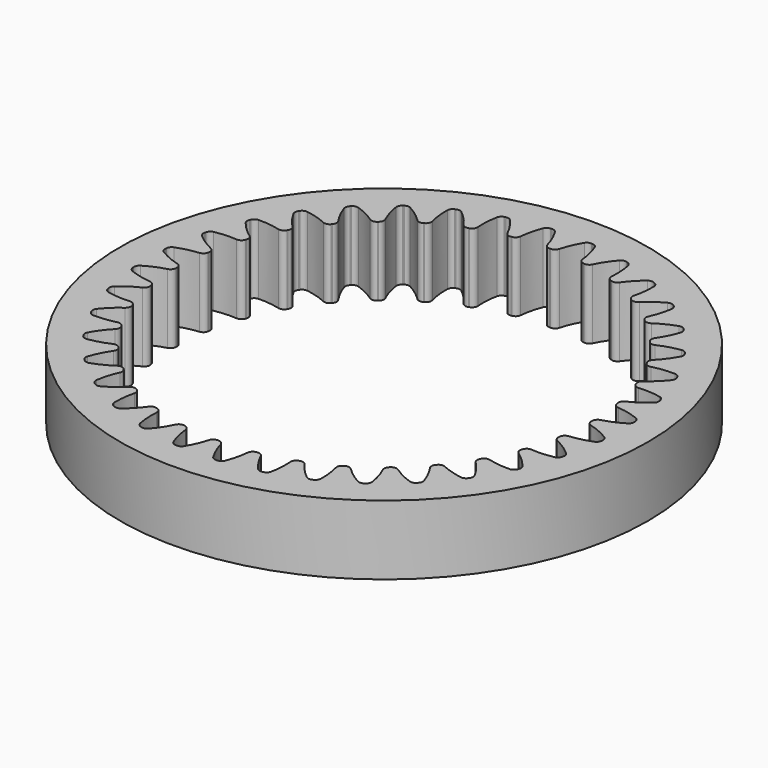
from build123d import *

# Parameters (mm, degrees)
F0_R     = 38
F1_DEPTH = 10


with BuildPart() as f1:
    # F0 (on Top) → F1 (new body)
    with BuildSketch(Plane.XY):
        Circle(F0_R)
        with BuildLine():
            ThreePointArc((-2.110733, 33.383711), (-1.375417, 31.970337), (-0.846461, 30.467499))
            ThreePointArc((-0.846461, 30.467499), (-0.556345, 30.040207), (-0.065598, 29.879231))
            Line((-0.065598, 29.879231), (0, 29.88))
            Line((0, 29.88), (0.065598, 29.879231))
            ThreePointArc((0.065598, 29.879231), (0.556345, 30.040207), (0.846461, 30.467499))
            ThreePointArc((0.846461, 30.467499), (1.375417, 31.970337), (2.110733, 33.383711))
            ThreePointArc((2.110733, 33.383711), (2.426648, 33.676705), (2.848717, 33.763341))
            Line((2.848717, 33.763341), (2.953266, 33.755989))
            Line((2.953266, 33.755989), (3.057504, 33.745075))
            ThreePointArc((3.057504, 33.745075), (3.458116, 33.586463), (3.718355, 33.243062))
            ThreePointArc((3.718355, 33.243062), (4.197069, 31.723474), (4.457024, 30.151616))
            ThreePointArc((4.457024, 30.151616), (4.668534, 29.680437), (5.123872, 29.43669))
            Line((5.123872, 29.43669), (5.188608, 29.426056))
            Line((5.188608, 29.426056), (5.253076, 29.413908))
            ThreePointArc((5.253076, 29.413908), (5.76432, 29.487221), (6.124227, 29.857643))
            ThreePointArc((6.124227, 29.857643), (6.906112, 31.245797), (7.875687, 32.510013))
            ThreePointArc((7.875687, 32.510013), (8.237681, 32.743697), (8.668381, 32.755726))
            Line((8.668381, 32.755726), (8.770066, 32.730331))
            Line((8.770066, 32.730331), (8.870824, 32.701481))
            ThreePointArc((8.870824, 32.701481), (9.237808, 32.475714), (9.434462, 32.09234))
            ThreePointArc((9.434462, 32.09234), (9.64203, 30.51271), (9.625085, 28.919591))
            ThreePointArc((9.625085, 28.919591), (9.751562, 28.418842), (10.157657, 28.099729))
            Line((10.157657, 28.099729), (10.219562, 28.078016))
            Line((10.219562, 28.078016), (10.280941, 28.054857))
            ThreePointArc((10.280941, 28.054857), (10.797149, 28.03828), (11.215912, 28.340578))
            ThreePointArc((11.215912, 28.340578), (12.226969, 29.571869), (13.401342, 30.648514))
            ThreePointArc((13.401342, 30.648514), (13.798415, 30.815788), (14.224661, 30.752844))
            Line((14.224661, 30.752844), (14.320391, 30.710178))
            Line((14.320391, 30.710178), (14.414609, 30.66427))
            ThreePointArc((14.414609, 30.66427), (14.736813, 30.378206), (14.863907, 29.966508))
            ThreePointArc((14.863907, 29.966508), (14.794022, 28.374833), (14.500693, 26.808859))
            ThreePointArc((14.500693, 26.808859), (14.538295, 26.293755), (14.882806, 25.908972))
            Line((14.882806, 25.908972), (14.94, 25.876839))
            Line((14.94, 25.876839), (14.996425, 25.843374))
            ThreePointArc((14.996425, 25.843374), (15.501913, 25.73741), (15.966807, 25.962398))
            ThreePointArc((15.966807, 25.962398), (17.176315, 26.999415), (18.519804, 27.855775))
            ThreePointArc((18.519804, 27.855775), (18.939892, 27.951558), (19.348732, 27.815553))
            Line((19.348732, 27.815553), (19.435598, 27.756911))
            Line((19.435598, 27.756911), (19.520414, 27.69534))
            ThreePointArc((19.520414, 27.69534), (19.788048, 27.357672), (19.841721, 26.930159))
            ThreePointArc((19.841721, 26.930159), (19.496506, 25.3748), (18.935704, 23.883553))
            ThreePointArc((18.935704, 23.883553), (18.883288, 23.369746), (19.155748, 22.930985))
            Line((19.155748, 22.930985), (19.206494, 22.889408))
            Line((19.206494, 22.889408), (19.256251, 22.846653))
            ThreePointArc((19.256251, 22.846653), (19.735658, 22.654522), (20.232558, 22.795364))
            ThreePointArc((20.232558, 22.795364), (21.603767, 23.606598), (23.075551, 24.216653))
            ThreePointArc((23.075551, 24.216653), (23.505889, 24.238033), (23.884901, 24.0331))
            Line((23.884901, 24.0331), (23.960265, 23.960265))
            Line((23.960265, 23.960265), (24.0331, 23.884901))
            ThreePointArc((24.0331, 23.884901), (24.238033, 23.505889), (24.216653, 23.075551))
            ThreePointArc((24.216653, 23.075551), (23.606598, 21.603767), (22.795364, 20.232558))
            ThreePointArc((22.795364, 20.232558), (22.654522, 19.735658), (22.846653, 19.256251))
            Line((22.846653, 19.256251), (22.889408, 19.206494))
            Line((22.889408, 19.206494), (22.930985, 19.155748))
            ThreePointArc((22.930985, 19.155748), (23.369746, 18.883288), (23.883553, 18.935704))
            ThreePointArc((23.883553, 18.935704), (25.3748, 19.496506), (26.930159, 19.841721))
            ThreePointArc((26.930159, 19.841721), (27.357672, 19.788048), (27.69534, 19.520414))
            Line((27.69534, 19.520414), (27.756911, 19.435598))
            Line((27.756911, 19.435598), (27.815553, 19.348732))
            ThreePointArc((27.815553, 19.348732), (27.951558, 18.939892), (27.855775, 18.519804))
            ThreePointArc((27.855775, 18.519804), (26.999415, 17.176315), (25.962398, 15.966807))
            ThreePointArc((25.962398, 15.966807), (25.73741, 15.501913), (25.843374, 14.996425))
            Line((25.843374, 14.996425), (25.876839, 14.94))
            Line((25.876839, 14.94), (25.908972, 14.882806))
            ThreePointArc((25.908972, 14.882806), (26.293755, 14.538295), (26.808859, 14.500693))
            ThreePointArc((26.808859, 14.500693), (28.374833, 14.794022), (29.966508, 14.863907))
            ThreePointArc((29.966508, 14.863907), (30.378206, 14.736813), (30.66427, 14.414609))
            Line((30.66427, 14.414609), (30.710178, 14.320391))
            Line((30.710178, 14.320391), (30.752844, 14.224661))
            ThreePointArc((30.752844, 14.224661), (30.815788, 13.798415), (30.648514, 13.401342))
            ThreePointArc((30.648514, 13.401342), (29.571869, 12.226969), (28.340578, 11.215912))
            ThreePointArc((28.340578, 11.215912), (28.03828, 10.797149), (28.054857, 10.280941))
            Line((28.054857, 10.280941), (28.078016, 10.219562))
            Line((28.078016, 10.219562), (28.099729, 10.157657))
            ThreePointArc((28.099729, 10.157657), (28.418842, 9.751562), (28.919591, 9.625085))
            ThreePointArc((28.919591, 9.625085), (30.51271, 9.64203), (32.09234, 9.434462))
            ThreePointArc((32.09234, 9.434462), (32.475714, 9.237808), (32.701481, 8.870824))
            Line((32.701481, 8.870824), (32.730331, 8.770066))
            Line((32.730331, 8.770066), (32.755726, 8.668381))
            ThreePointArc((32.755726, 8.668381), (32.743697, 8.237681), (32.510013, 7.875687))
            ThreePointArc((32.510013, 7.875687), (31.245797, 6.906112), (29.857643, 6.124227))
            ThreePointArc((29.857643, 6.124227), (29.487221, 5.76432), (29.413908, 5.253076))
            Line((29.413908, 5.253076), (29.426056, 5.188608))
            Line((29.426056, 5.188608), (29.43669, 5.123872))
            ThreePointArc((29.43669, 5.123872), (29.680437, 4.668534), (30.151616, 4.457024))
            ThreePointArc((30.151616, 4.457024), (31.723474, 4.197069), (33.243062, 3.718355))
            ThreePointArc((33.243062, 3.718355), (33.586463, 3.458116), (33.745075, 3.057504))
            Line((33.745075, 3.057504), (33.755989, 2.953266))
            Line((33.755989, 2.953266), (33.763341, 2.848717))
            ThreePointArc((33.763341, 2.848717), (33.676705, 2.426648), (33.383711, 2.110733))
            ThreePointArc((33.383711, 2.110733), (31.970337, 1.375417), (30.467499, 0.846461))
            ThreePointArc((30.467499, 0.846461), (30.040207, 0.556345), (29.879231, 0.065598))
            Line((29.879231, 0.065598), (29.88, 0))
            Line((29.88, 0), (29.879231, -0.065598))
            ThreePointArc((29.879231, -0.065598), (30.040207, -0.556345), (30.467499, -0.846461))
            ThreePointArc((30.467499, -0.846461), (31.970337, -1.375417), (33.383711, -2.110733))
            ThreePointArc((33.383711, -2.110733), (33.676705, -2.426648), (33.763341, -2.848717))
            Line((33.763341, -2.848717), (33.755989, -2.953266))
            Line((33.755989, -2.953266), (33.745075, -3.057504))
            ThreePointArc((33.745075, -3.057504), (33.586463, -3.458116), (33.243062, -3.718355))
            ThreePointArc((33.243062, -3.718355), (31.723474, -4.197069), (30.151616, -4.457024))
            ThreePointArc((30.151616, -4.457024), (29.680437, -4.668534), (29.43669, -5.123872))
            Line((29.43669, -5.123872), (29.426056, -5.188608))
            Line((29.426056, -5.188608), (29.413908, -5.253076))
            ThreePointArc((29.413908, -5.253076), (29.487221, -5.76432), (29.857643, -6.124227))
            ThreePointArc((29.857643, -6.124227), (31.245797, -6.906112), (32.510013, -7.875687))
            ThreePointArc((32.510013, -7.875687), (32.743697, -8.237681), (32.755726, -8.668381))
            Line((32.755726, -8.668381), (32.730331, -8.770066))
            Line((32.730331, -8.770066), (32.701481, -8.870824))
            ThreePointArc((32.701481, -8.870824), (32.475714, -9.237808), (32.09234, -9.434462))
            ThreePointArc((32.09234, -9.434462), (30.51271, -9.64203), (28.919591, -9.625085))
            ThreePointArc((28.919591, -9.625085), (28.418842, -9.751562), (28.099729, -10.157657))
            Line((28.099729, -10.157657), (28.078016, -10.219562))
            Line((28.078016, -10.219562), (28.054857, -10.280941))
            ThreePointArc((28.054857, -10.280941), (28.03828, -10.797149), (28.340578, -11.215912))
            ThreePointArc((28.340578, -11.215912), (29.571869, -12.226969), (30.648514, -13.401342))
            ThreePointArc((30.648514, -13.401342), (30.815788, -13.798415), (30.752844, -14.224661))
            Line((30.752844, -14.224661), (30.710178, -14.320391))
            Line((30.710178, -14.320391), (30.66427, -14.414609))
            ThreePointArc((30.66427, -14.414609), (30.378206, -14.736813), (29.966508, -14.863907))
            ThreePointArc((29.966508, -14.863907), (28.374833, -14.794022), (26.808859, -14.500693))
            ThreePointArc((26.808859, -14.500693), (26.293755, -14.538295), (25.908972, -14.882806))
            Line((25.908972, -14.882806), (25.876839, -14.94))
            Line((25.876839, -14.94), (25.843374, -14.996425))
            ThreePointArc((25.843374, -14.996425), (25.73741, -15.501913), (25.962398, -15.966807))
            ThreePointArc((25.962398, -15.966807), (26.999415, -17.176315), (27.855775, -18.519804))
            ThreePointArc((27.855775, -18.519804), (27.951558, -18.939892), (27.815553, -19.348732))
            Line((27.815553, -19.348732), (27.756911, -19.435598))
            Line((27.756911, -19.435598), (27.69534, -19.520414))
            ThreePointArc((27.69534, -19.520414), (27.357672, -19.788048), (26.930159, -19.841721))
            ThreePointArc((26.930159, -19.841721), (25.3748, -19.496506), (23.883553, -18.935704))
            ThreePointArc((23.883553, -18.935704), (23.369746, -18.883288), (22.930985, -19.155748))
            Line((22.930985, -19.155748), (22.889408, -19.206494))
            Line((22.889408, -19.206494), (22.846653, -19.256251))
            ThreePointArc((22.846653, -19.256251), (22.654522, -19.735658), (22.795364, -20.232558))
            ThreePointArc((22.795364, -20.232558), (23.606598, -21.603767), (24.216653, -23.075551))
            ThreePointArc((24.216653, -23.075551), (24.238033, -23.505889), (24.0331, -23.884901))
            Line((24.0331, -23.884901), (23.960265, -23.960265))
            Line((23.960265, -23.960265), (23.884901, -24.0331))
            ThreePointArc((23.884901, -24.0331), (23.505889, -24.238033), (23.075551, -24.216653))
            ThreePointArc((23.075551, -24.216653), (21.603767, -23.606598), (20.232558, -22.795364))
            ThreePointArc((20.232558, -22.795364), (19.735658, -22.654522), (19.256251, -22.846653))
            Line((19.256251, -22.846653), (19.206494, -22.889408))
            Line((19.206494, -22.889408), (19.155748, -22.930985))
            ThreePointArc((19.155748, -22.930985), (18.883288, -23.369746), (18.935704, -23.883553))
            ThreePointArc((18.935704, -23.883553), (19.496506, -25.3748), (19.841721, -26.930159))
            ThreePointArc((19.841721, -26.930159), (19.788048, -27.357672), (19.520414, -27.69534))
            Line((19.520414, -27.69534), (19.435598, -27.756911))
            Line((19.435598, -27.756911), (19.348732, -27.815553))
            ThreePointArc((19.348732, -27.815553), (18.939892, -27.951558), (18.519804, -27.855775))
            ThreePointArc((18.519804, -27.855775), (17.176315, -26.999415), (15.966807, -25.962398))
            ThreePointArc((15.966807, -25.962398), (15.501913, -25.73741), (14.996425, -25.843374))
            Line((14.996425, -25.843374), (14.94, -25.876839))
            Line((14.94, -25.876839), (14.882806, -25.908972))
            ThreePointArc((14.882806, -25.908972), (14.538295, -26.293755), (14.500693, -26.808859))
            ThreePointArc((14.500693, -26.808859), (14.794022, -28.374833), (14.863907, -29.966508))
            ThreePointArc((14.863907, -29.966508), (14.736813, -30.378206), (14.414609, -30.66427))
            Line((14.414609, -30.66427), (14.320391, -30.710178))
            Line((14.320391, -30.710178), (14.224661, -30.752844))
            ThreePointArc((14.224661, -30.752844), (13.798415, -30.815788), (13.401342, -30.648514))
            ThreePointArc((13.401342, -30.648514), (12.226969, -29.571869), (11.215912, -28.340578))
            ThreePointArc((11.215912, -28.340578), (10.797149, -28.03828), (10.280941, -28.054857))
            Line((10.280941, -28.054857), (10.219562, -28.078016))
            Line((10.219562, -28.078016), (10.157657, -28.099729))
            ThreePointArc((10.157657, -28.099729), (9.751562, -28.418842), (9.625085, -28.919591))
            ThreePointArc((9.625085, -28.919591), (9.64203, -30.51271), (9.434462, -32.09234))
            ThreePointArc((9.434462, -32.09234), (9.237808, -32.475714), (8.870824, -32.701481))
            Line((8.870824, -32.701481), (8.770066, -32.730331))
            Line((8.770066, -32.730331), (8.668381, -32.755726))
            ThreePointArc((8.668381, -32.755726), (8.237681, -32.743697), (7.875687, -32.510013))
            ThreePointArc((7.875687, -32.510013), (6.906112, -31.245797), (6.124227, -29.857643))
            ThreePointArc((6.124227, -29.857643), (5.76432, -29.487221), (5.253076, -29.413908))
            Line((5.253076, -29.413908), (5.188608, -29.426056))
            Line((5.188608, -29.426056), (5.123872, -29.43669))
            ThreePointArc((5.123872, -29.43669), (4.668534, -29.680437), (4.457024, -30.151616))
            ThreePointArc((4.457024, -30.151616), (4.197069, -31.723474), (3.718355, -33.243062))
            ThreePointArc((3.718355, -33.243062), (3.458116, -33.586463), (3.057504, -33.745075))
            Line((3.057504, -33.745075), (2.953266, -33.755989))
            Line((2.953266, -33.755989), (2.848717, -33.763341))
            ThreePointArc((2.848717, -33.763341), (2.426648, -33.676705), (2.110733, -33.383711))
            ThreePointArc((2.110733, -33.383711), (1.375417, -31.970337), (0.846461, -30.467499))
            ThreePointArc((0.846461, -30.467499), (0.556345, -30.040207), (0.065598, -29.879231))
            Line((0.065598, -29.879231), (0, -29.88))
            Line((0, -29.88), (-0.065598, -29.879231))
            ThreePointArc((-0.065598, -29.879231), (-0.556345, -30.040207), (-0.846461, -30.467499))
            ThreePointArc((-0.846461, -30.467499), (-1.375417, -31.970337), (-2.110733, -33.383711))
            ThreePointArc((-2.110733, -33.383711), (-2.426648, -33.676705), (-2.848717, -33.763341))
            Line((-2.848717, -33.763341), (-2.953266, -33.755989))
            Line((-2.953266, -33.755989), (-3.057504, -33.745075))
            ThreePointArc((-3.057504, -33.745075), (-3.458116, -33.586463), (-3.718355, -33.243062))
            ThreePointArc((-3.718355, -33.243062), (-4.197069, -31.723474), (-4.457024, -30.151616))
            ThreePointArc((-4.457024, -30.151616), (-4.668534, -29.680437), (-5.123872, -29.43669))
            Line((-5.123872, -29.43669), (-5.188608, -29.426056))
            Line((-5.188608, -29.426056), (-5.253076, -29.413908))
            ThreePointArc((-5.253076, -29.413908), (-5.76432, -29.487221), (-6.124227, -29.857643))
            ThreePointArc((-6.124227, -29.857643), (-6.906112, -31.245797), (-7.875687, -32.510013))
            ThreePointArc((-7.875687, -32.510013), (-8.237681, -32.743697), (-8.668381, -32.755726))
            Line((-8.668381, -32.755726), (-8.770066, -32.730331))
            Line((-8.770066, -32.730331), (-8.870824, -32.701481))
            ThreePointArc((-8.870824, -32.701481), (-9.237808, -32.475714), (-9.434462, -32.09234))
            ThreePointArc((-9.434462, -32.09234), (-9.64203, -30.51271), (-9.625085, -28.919591))
            ThreePointArc((-9.625085, -28.919591), (-9.751562, -28.418842), (-10.157657, -28.099729))
            Line((-10.157657, -28.099729), (-10.219562, -28.078016))
            Line((-10.219562, -28.078016), (-10.280941, -28.054857))
            ThreePointArc((-10.280941, -28.054857), (-10.797149, -28.03828), (-11.215912, -28.340578))
            ThreePointArc((-11.215912, -28.340578), (-12.226969, -29.571869), (-13.401342, -30.648514))
            ThreePointArc((-13.401342, -30.648514), (-13.798415, -30.815788), (-14.224661, -30.752844))
            Line((-14.224661, -30.752844), (-14.320391, -30.710178))
            Line((-14.320391, -30.710178), (-14.414609, -30.66427))
            ThreePointArc((-14.414609, -30.66427), (-14.736813, -30.378206), (-14.863907, -29.966508))
            ThreePointArc((-14.863907, -29.966508), (-14.794022, -28.374833), (-14.500693, -26.808859))
            ThreePointArc((-14.500693, -26.808859), (-14.538295, -26.293755), (-14.882806, -25.908972))
            Line((-14.882806, -25.908972), (-14.94, -25.876839))
            Line((-14.94, -25.876839), (-14.996425, -25.843374))
            ThreePointArc((-14.996425, -25.843374), (-15.501913, -25.73741), (-15.966807, -25.962398))
            ThreePointArc((-15.966807, -25.962398), (-17.176315, -26.999415), (-18.519804, -27.855775))
            ThreePointArc((-18.519804, -27.855775), (-18.939892, -27.951558), (-19.348732, -27.815553))
            Line((-19.348732, -27.815553), (-19.435598, -27.756911))
            Line((-19.435598, -27.756911), (-19.520414, -27.69534))
            ThreePointArc((-19.520414, -27.69534), (-19.788048, -27.357672), (-19.841721, -26.930159))
            ThreePointArc((-19.841721, -26.930159), (-19.496506, -25.3748), (-18.935704, -23.883553))
            ThreePointArc((-18.935704, -23.883553), (-18.883288, -23.369746), (-19.155748, -22.930985))
            Line((-19.155748, -22.930985), (-19.206494, -22.889408))
            Line((-19.206494, -22.889408), (-19.256251, -22.846653))
            ThreePointArc((-19.256251, -22.846653), (-19.735658, -22.654522), (-20.232558, -22.795364))
            ThreePointArc((-20.232558, -22.795364), (-21.603767, -23.606598), (-23.075551, -24.216653))
            ThreePointArc((-23.075551, -24.216653), (-23.505889, -24.238033), (-23.884901, -24.0331))
            Line((-23.884901, -24.0331), (-23.960265, -23.960265))
            Line((-23.960265, -23.960265), (-24.0331, -23.884901))
            ThreePointArc((-24.0331, -23.884901), (-24.238033, -23.505889), (-24.216653, -23.075551))
            ThreePointArc((-24.216653, -23.075551), (-23.606598, -21.603767), (-22.795364, -20.232558))
            ThreePointArc((-22.795364, -20.232558), (-22.654522, -19.735658), (-22.846653, -19.256251))
            Line((-22.846653, -19.256251), (-22.889408, -19.206494))
            Line((-22.889408, -19.206494), (-22.930985, -19.155748))
            ThreePointArc((-22.930985, -19.155748), (-23.369746, -18.883288), (-23.883553, -18.935704))
            ThreePointArc((-23.883553, -18.935704), (-25.3748, -19.496506), (-26.930159, -19.841721))
            ThreePointArc((-26.930159, -19.841721), (-27.357672, -19.788048), (-27.69534, -19.520414))
            Line((-27.69534, -19.520414), (-27.756911, -19.435598))
            Line((-27.756911, -19.435598), (-27.815553, -19.348732))
            ThreePointArc((-27.815553, -19.348732), (-27.951558, -18.939892), (-27.855775, -18.519804))
            ThreePointArc((-27.855775, -18.519804), (-26.999415, -17.176315), (-25.962398, -15.966807))
            ThreePointArc((-25.962398, -15.966807), (-25.73741, -15.501913), (-25.843374, -14.996425))
            Line((-25.843374, -14.996425), (-25.876839, -14.94))
            Line((-25.876839, -14.94), (-25.908972, -14.882806))
            ThreePointArc((-25.908972, -14.882806), (-26.293755, -14.538295), (-26.808859, -14.500693))
            ThreePointArc((-26.808859, -14.500693), (-28.374833, -14.794022), (-29.966508, -14.863907))
            ThreePointArc((-29.966508, -14.863907), (-30.378206, -14.736813), (-30.66427, -14.414609))
            Line((-30.66427, -14.414609), (-30.710178, -14.320391))
            Line((-30.710178, -14.320391), (-30.752844, -14.224661))
            ThreePointArc((-30.752844, -14.224661), (-30.815788, -13.798415), (-30.648514, -13.401342))
            ThreePointArc((-30.648514, -13.401342), (-29.571869, -12.226969), (-28.340578, -11.215912))
            ThreePointArc((-28.340578, -11.215912), (-28.03828, -10.797149), (-28.054857, -10.280941))
            Line((-28.054857, -10.280941), (-28.078016, -10.219562))
            Line((-28.078016, -10.219562), (-28.099729, -10.157657))
            ThreePointArc((-28.099729, -10.157657), (-28.418842, -9.751562), (-28.919591, -9.625085))
            ThreePointArc((-28.919591, -9.625085), (-30.51271, -9.64203), (-32.09234, -9.434462))
            ThreePointArc((-32.09234, -9.434462), (-32.475714, -9.237808), (-32.701481, -8.870824))
            Line((-32.701481, -8.870824), (-32.730331, -8.770066))
            Line((-32.730331, -8.770066), (-32.755726, -8.668381))
            ThreePointArc((-32.755726, -8.668381), (-32.743697, -8.237681), (-32.510013, -7.875687))
            ThreePointArc((-32.510013, -7.875687), (-31.245797, -6.906112), (-29.857643, -6.124227))
            ThreePointArc((-29.857643, -6.124227), (-29.487221, -5.76432), (-29.413908, -5.253076))
            Line((-29.413908, -5.253076), (-29.426056, -5.188608))
            Line((-29.426056, -5.188608), (-29.43669, -5.123872))
            ThreePointArc((-29.43669, -5.123872), (-29.680437, -4.668534), (-30.151616, -4.457024))
            ThreePointArc((-30.151616, -4.457024), (-31.723474, -4.197069), (-33.243062, -3.718355))
            ThreePointArc((-33.243062, -3.718355), (-33.586463, -3.458116), (-33.745075, -3.057504))
            Line((-33.745075, -3.057504), (-33.755989, -2.953266))
            Line((-33.755989, -2.953266), (-33.763341, -2.848717))
            ThreePointArc((-33.763341, -2.848717), (-33.676705, -2.426648), (-33.383711, -2.110733))
            ThreePointArc((-33.383711, -2.110733), (-31.970337, -1.375417), (-30.467499, -0.846461))
            ThreePointArc((-30.467499, -0.846461), (-30.040207, -0.556345), (-29.879231, -0.065598))
            Line((-29.879231, -0.065598), (-29.88, 0))
            Line((-29.88, 0), (-29.879231, 0.065598))
            ThreePointArc((-29.879231, 0.065598), (-30.040207, 0.556345), (-30.467499, 0.846461))
            ThreePointArc((-30.467499, 0.846461), (-31.970337, 1.375417), (-33.383711, 2.110733))
            ThreePointArc((-33.383711, 2.110733), (-33.676705, 2.426648), (-33.763341, 2.848717))
            Line((-33.763341, 2.848717), (-33.755989, 2.953266))
            Line((-33.755989, 2.953266), (-33.745075, 3.057504))
            ThreePointArc((-33.745075, 3.057504), (-33.586463, 3.458116), (-33.243062, 3.718355))
            ThreePointArc((-33.243062, 3.718355), (-31.723474, 4.197069), (-30.151616, 4.457024))
            ThreePointArc((-30.151616, 4.457024), (-29.680437, 4.668534), (-29.43669, 5.123872))
            Line((-29.43669, 5.123872), (-29.426056, 5.188608))
            Line((-29.426056, 5.188608), (-29.413908, 5.253076))
            ThreePointArc((-29.413908, 5.253076), (-29.487221, 5.76432), (-29.857643, 6.124227))
            ThreePointArc((-29.857643, 6.124227), (-31.245797, 6.906112), (-32.510013, 7.875687))
            ThreePointArc((-32.510013, 7.875687), (-32.743697, 8.237681), (-32.755726, 8.668381))
            Line((-32.755726, 8.668381), (-32.730331, 8.770066))
            Line((-32.730331, 8.770066), (-32.701481, 8.870824))
            ThreePointArc((-32.701481, 8.870824), (-32.475714, 9.237808), (-32.09234, 9.434462))
            ThreePointArc((-32.09234, 9.434462), (-30.51271, 9.64203), (-28.919591, 9.625085))
            ThreePointArc((-28.919591, 9.625085), (-28.418842, 9.751562), (-28.099729, 10.157657))
            Line((-28.099729, 10.157657), (-28.078016, 10.219562))
            Line((-28.078016, 10.219562), (-28.054857, 10.280941))
            ThreePointArc((-28.054857, 10.280941), (-28.03828, 10.797149), (-28.340578, 11.215912))
            ThreePointArc((-28.340578, 11.215912), (-29.571869, 12.226969), (-30.648514, 13.401342))
            ThreePointArc((-30.648514, 13.401342), (-30.815788, 13.798415), (-30.752844, 14.224661))
            Line((-30.752844, 14.224661), (-30.710178, 14.320391))
            Line((-30.710178, 14.320391), (-30.66427, 14.414609))
            ThreePointArc((-30.66427, 14.414609), (-30.378206, 14.736813), (-29.966508, 14.863907))
            ThreePointArc((-29.966508, 14.863907), (-28.374833, 14.794022), (-26.808859, 14.500693))
            ThreePointArc((-26.808859, 14.500693), (-26.293755, 14.538295), (-25.908972, 14.882806))
            Line((-25.908972, 14.882806), (-25.876839, 14.94))
            Line((-25.876839, 14.94), (-25.843374, 14.996425))
            ThreePointArc((-25.843374, 14.996425), (-25.73741, 15.501913), (-25.962398, 15.966807))
            ThreePointArc((-25.962398, 15.966807), (-26.999415, 17.176315), (-27.855775, 18.519804))
            ThreePointArc((-27.855775, 18.519804), (-27.951558, 18.939892), (-27.815553, 19.348732))
            Line((-27.815553, 19.348732), (-27.756911, 19.435598))
            Line((-27.756911, 19.435598), (-27.69534, 19.520414))
            ThreePointArc((-27.69534, 19.520414), (-27.357672, 19.788048), (-26.930159, 19.841721))
            ThreePointArc((-26.930159, 19.841721), (-25.3748, 19.496506), (-23.883553, 18.935704))
            ThreePointArc((-23.883553, 18.935704), (-23.369746, 18.883288), (-22.930985, 19.155748))
            Line((-22.930985, 19.155748), (-22.889408, 19.206494))
            Line((-22.889408, 19.206494), (-22.846653, 19.256251))
            ThreePointArc((-22.846653, 19.256251), (-22.654522, 19.735658), (-22.795364, 20.232558))
            ThreePointArc((-22.795364, 20.232558), (-23.606598, 21.603767), (-24.216653, 23.075551))
            ThreePointArc((-24.216653, 23.075551), (-24.238033, 23.505889), (-24.0331, 23.884901))
            Line((-24.0331, 23.884901), (-23.960265, 23.960265))
            Line((-23.960265, 23.960265), (-23.884901, 24.0331))
            ThreePointArc((-23.884901, 24.0331), (-23.505889, 24.238033), (-23.075551, 24.216653))
            ThreePointArc((-23.075551, 24.216653), (-21.603767, 23.606598), (-20.232558, 22.795364))
            ThreePointArc((-20.232558, 22.795364), (-19.735658, 22.654522), (-19.256251, 22.846653))
            Line((-19.256251, 22.846653), (-19.206494, 22.889408))
            Line((-19.206494, 22.889408), (-19.155748, 22.930985))
            ThreePointArc((-19.155748, 22.930985), (-18.883288, 23.369746), (-18.935704, 23.883553))
            ThreePointArc((-18.935704, 23.883553), (-19.496506, 25.3748), (-19.841721, 26.930159))
            ThreePointArc((-19.841721, 26.930159), (-19.788048, 27.357672), (-19.520414, 27.69534))
            Line((-19.520414, 27.69534), (-19.435598, 27.756911))
            Line((-19.435598, 27.756911), (-19.348732, 27.815553))
            ThreePointArc((-19.348732, 27.815553), (-18.939892, 27.951558), (-18.519804, 27.855775))
            ThreePointArc((-18.519804, 27.855775), (-17.176315, 26.999415), (-15.966807, 25.962398))
            ThreePointArc((-15.966807, 25.962398), (-15.501913, 25.73741), (-14.996425, 25.843374))
            Line((-14.996425, 25.843374), (-14.94, 25.876839))
            Line((-14.94, 25.876839), (-14.882806, 25.908972))
            ThreePointArc((-14.882806, 25.908972), (-14.538295, 26.293755), (-14.500693, 26.808859))
            ThreePointArc((-14.500693, 26.808859), (-14.794022, 28.374833), (-14.863907, 29.966508))
            ThreePointArc((-14.863907, 29.966508), (-14.736813, 30.378206), (-14.414609, 30.66427))
            Line((-14.414609, 30.66427), (-14.320391, 30.710178))
            Line((-14.320391, 30.710178), (-14.224661, 30.752844))
            ThreePointArc((-14.224661, 30.752844), (-13.798415, 30.815788), (-13.401342, 30.648514))
            ThreePointArc((-13.401342, 30.648514), (-12.226969, 29.571869), (-11.215912, 28.340578))
            ThreePointArc((-11.215912, 28.340578), (-10.797149, 28.03828), (-10.280941, 28.054857))
            Line((-10.280941, 28.054857), (-10.219562, 28.078016))
            Line((-10.219562, 28.078016), (-10.157657, 28.099729))
            ThreePointArc((-10.157657, 28.099729), (-9.751562, 28.418842), (-9.625085, 28.919591))
            ThreePointArc((-9.625085, 28.919591), (-9.64203, 30.51271), (-9.434462, 32.09234))
            ThreePointArc((-9.434462, 32.09234), (-9.237808, 32.475714), (-8.870824, 32.701481))
            Line((-8.870824, 32.701481), (-8.770066, 32.730331))
            Line((-8.770066, 32.730331), (-8.668381, 32.755726))
            ThreePointArc((-8.668381, 32.755726), (-8.237681, 32.743697), (-7.875687, 32.510013))
            ThreePointArc((-7.875687, 32.510013), (-6.906112, 31.245797), (-6.124227, 29.857643))
            ThreePointArc((-6.124227, 29.857643), (-5.76432, 29.487221), (-5.253076, 29.413908))
            Line((-5.253076, 29.413908), (-5.188608, 29.426056))
            Line((-5.188608, 29.426056), (-5.123872, 29.43669))
            ThreePointArc((-5.123872, 29.43669), (-4.668534, 29.680437), (-4.457024, 30.151616))
            ThreePointArc((-4.457024, 30.151616), (-4.197069, 31.723474), (-3.718355, 33.243062))
            ThreePointArc((-3.718355, 33.243062), (-3.458116, 33.586463), (-3.057504, 33.745075))
            Line((-3.057504, 33.745075), (-2.953266, 33.755989))
            Line((-2.953266, 33.755989), (-2.848717, 33.763341))
            ThreePointArc((-2.848717, 33.763341), (-2.426648, 33.676705), (-2.110733, 33.383711))
        make_face(mode=Mode.SUBTRACT)
    extrude(amount=F1_DEPTH)


solid = f1.part
